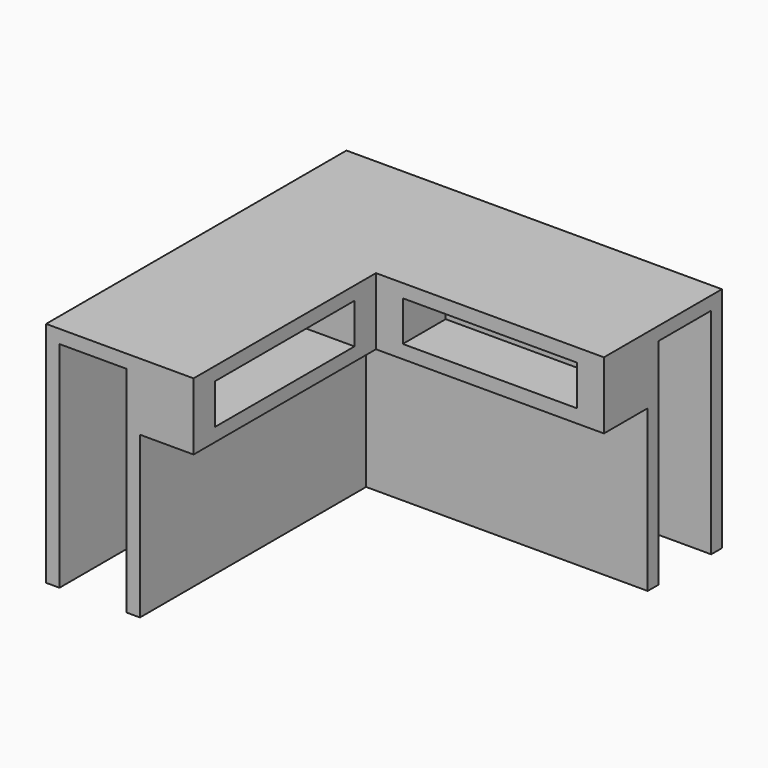
from build123d import *

# Parameters (mm, degrees)
F1_DEPTH  = 6.35
F2_DEPTH  = 101.6
F3_DEPTH  = 25.4
F4_DEPTH  = 25.4
F6_DEPTH  = 76.2
F7_W      = 82.55
F7_H      = 19.05
F8_DEPTH  = 25.4
F9_W      = 82.55
F9_H      = 19.05
F10_DEPTH = 25.4


with BuildPart() as f1:
    # F0 (on Top) → F1 (new body)
    with BuildSketch(Plane.XY):
        Polygon((177.8, 0), (0, 0), (0, -177.8), (6.35, -177.8), (6.35, -6.35), (177.8, -6.35), align=None)
        Polygon((6.35, -6.35), (6.35, -177.8), (38.1, -177.8), (38.1, -37.5833287835), (177.8, -37.5833287835), (177.8, -6.35), align=None)
        Polygon((38.1, -37.5833287835), (38.1, -177.8), (44.45, -177.8), (44.45, -44.45), (177.8, -44.45), (177.8, -37.5833287835), align=None)
    extrude(amount=F1_DEPTH)

    # F0 (on Top) → F2 (join)
    with BuildSketch(Plane.XY):
        Polygon((177.8, 0), (0, 0), (0, -177.8), (6.35, -177.8), (6.35, -6.35), (177.8, -6.35), align=None)
        Polygon((38.1, -37.5833287835), (38.1, -177.8), (44.45, -177.8), (44.45, -44.45), (177.8, -44.45), (177.8, -37.5833287835), align=None)
    extrude(amount=-F2_DEPTH)

    # F3 (add): a face of the model
    f3_faces = [f1.faces().sort_by_distance(p)[0] for p in [
        (111.125, -44.45, -47.625),
    ]]
    extrude(f3_faces, amount=F3_DEPTH)

    # F4 (add): a face of the model
    f4_faces = [f1.faces().sort_by_distance(p)[0] for p in [
        (44.45, -123.825, -47.625),
    ]]
    extrude(f4_faces, amount=F4_DEPTH)

    # F5 (on face) → F6 (cut)
    with BuildSketch(Plane(origin=(0, 0, -101.6), x_dir=(1, 0, 0), z_dir=(0, 0, -1))):
        Polygon((69.85, 177.8), (44.45, 177.8), (44.45, 43.9333287835), (177.8, 43.9333287835), (177.8, 69.85), (69.85, 69.85), align=None)
    extrude(amount=-F6_DEPTH, mode=Mode.SUBTRACT)

    # F7 (on face) → F8 (cut)
    with BuildSketch(Plane.YZ.offset(69.85)):
        with Locations((-123.825, -9.525)):
            Rectangle(F7_W, F7_H)
    extrude(amount=-F8_DEPTH, mode=Mode.SUBTRACT)

    # F9 (on face) → F10 (cut)
    with BuildSketch(Plane.XZ.offset(69.85)):
        with Locations((123.825, -9.525)):
            Rectangle(F9_W, F9_H)
    extrude(amount=-F10_DEPTH, mode=Mode.SUBTRACT)


solid = f1.part
